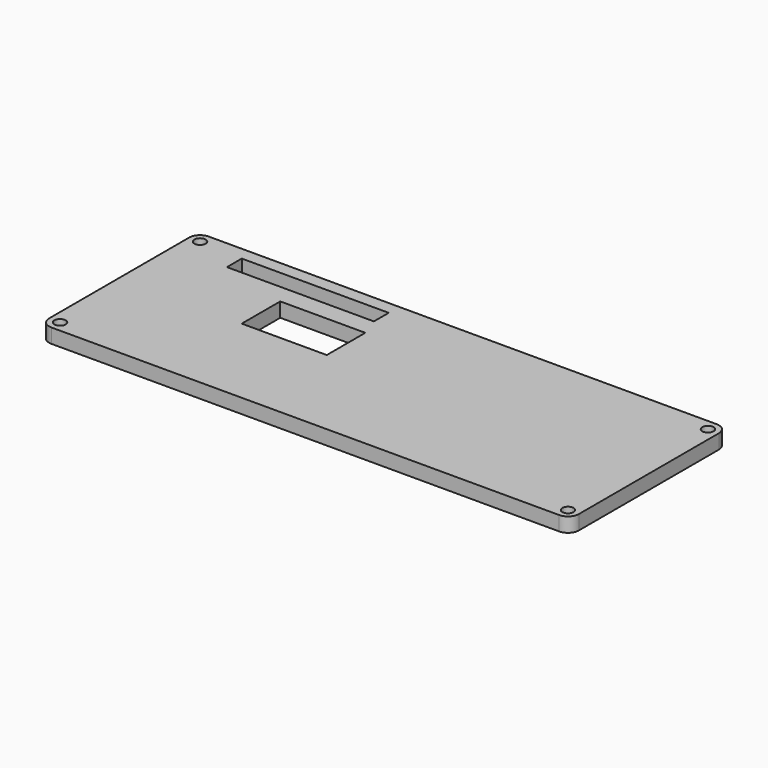
from build123d import *

# Parameters (mm, degrees)
F0_R     = 1.7526
F0_W     = 26.3398
F0_H     = 14.9098
F0_W_2   = 45.5168
F0_H_2   = 5.7404
F1_DEPTH = 4.4704


with BuildPart() as f1:
    # F0 (on Top) → F1 (new body)
    with BuildSketch(Plane.XY):
        with BuildLine():
            Line((-78.6638, -30.48), (78.6638, -30.48))
            ThreePointArc((78.6638, -30.48), (81.052548, -29.490548), (82.042, -27.1018))
            Line((82.042, -27.1018), (82.042, 27.1018))
            ThreePointArc((82.042, 27.1018), (81.052548, 29.490548), (78.6638, 30.48))
            Line((78.6638, 30.48), (-78.6638, 30.48))
            ThreePointArc((-78.6638, 30.48), (-81.052548, 29.490548), (-82.042, 27.1018))
            Line((-82.042, 27.1018), (-82.042, -27.1018))
            ThreePointArc((-82.042, -27.1018), (-81.052548, -29.490548), (-78.6638, -30.48))
        make_face()
        with Locations((-78.6638, -27.1018)):
            Circle(F0_R, mode=Mode.SUBTRACT)
        with Locations((78.6638, -27.1018)):
            Circle(F0_R, mode=Mode.SUBTRACT)
        with Locations((-30.7721, 7.3025)):
            Rectangle(F0_W, F0_H, mode=Mode.SUBTRACT)
        with Locations((-78.6638, 27.1018)):
            Circle(F0_R, mode=Mode.SUBTRACT)
        with Locations((-42.4688, 23.5966)):
            Rectangle(F0_W_2, F0_H_2, mode=Mode.SUBTRACT)
        with Locations((78.6638, 27.1018)):
            Circle(F0_R, mode=Mode.SUBTRACT)
    extrude(amount=F1_DEPTH)


solid = f1.part
